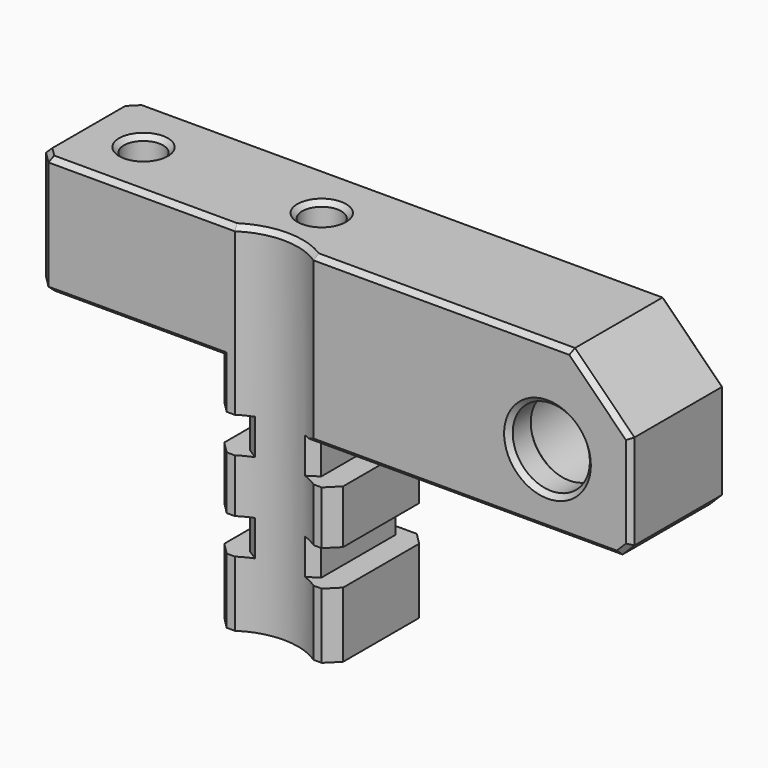
from build123d import *

# Parameters (mm, degrees)
SKETCH_W        = 25
SKETCH_H        = 10
SKETCH_R        = 1.65
PAD_DEPTH       = 30
SKETCH001_W     = 15
SKETCH001_H     = 10
POCKET_DEPTH    = 20
SKETCH002_R     = 3.5
POCKET001_DEPTH = 5
SKETCH003_R     = 6
POCKET002_DEPTH = 30.001
SKETCH004_W     = 2
SKETCH004_H     = 3
POCKET003_DEPTH = 10.001
PAD001_DEPTH    = 10
CHAMFER_SIZE    = 1
SKETCH006_R     = 3.25
POCKET004_DEPTH = 10.001
SKETCH007_R     = 4
POCKET005_DEPTH = 7
CHAMFER001_SIZE = 0.7
CHAMFER002_SIZE = 1
CHAMFER003_SIZE = 0.4


with BuildPart() as part:
    # Sketch → Pad (new body)
    with BuildSketch(Plane.XY):
        with Locations((-7.5, 0)):
            Rectangle(SKETCH_W, SKETCH_H)
        Circle(SKETCH_R, mode=Mode.SUBTRACT)
        with Locations((-15, 0)):
            Circle(SKETCH_R, mode=Mode.SUBTRACT)
    extrude(amount=PAD_DEPTH)

    # Sketch001 (on Face7 of Pad) → Pocket (cut)
    with BuildSketch(Plane(origin=(0, 0, 0), x_dir=(1, 0, 0), z_dir=(0, 0, -1))):
        with Locations((-12.5, 0)):
            Rectangle(SKETCH001_W, SKETCH001_H)
    extrude(amount=-POCKET_DEPTH, mode=Mode.SUBTRACT)

    # Sketch002 (on Face4 of Pocket) → Pocket001 (cut)
    with BuildSketch(Plane(origin=(0, 0, 0), x_dir=(1, 0, 0), z_dir=(0, 0, -1))):
        Circle(SKETCH002_R)
    extrude(amount=-POCKET001_DEPTH, mode=Mode.SUBTRACT)

    # Sketch003 (on Face4 of Pocket001) → Pocket002 (cut, through all)
    with BuildSketch(Plane(origin=(0, 0, 0), x_dir=(1, 0, 0), z_dir=(0, 0, -1))):
        with Locations((0, 10)):
            Circle(SKETCH003_R)
    extrude(amount=-POCKET002_DEPTH, mode=Mode.SUBTRACT)

    # Sketch004 (on Face11 of Pocket002) → Pocket003 (cut, through all)
    with BuildSketch(Plane.XZ.offset(5)):
        with Locations((-4, 7)):
            Rectangle(SKETCH004_W, SKETCH004_H)
        with Locations((4, 7)):
            Rectangle(SKETCH004_W, SKETCH004_H)
        with Locations((-4, 14.5)):
            Rectangle(SKETCH004_W, SKETCH004_H)
        with Locations((4, 14.5)):
            Rectangle(SKETCH004_W, SKETCH004_H)
    extrude(amount=-POCKET003_DEPTH, mode=Mode.SUBTRACT)

    # Sketch005 (on Face31 of Pocket003) → Pad001 (join)
    with BuildSketch(Plane.XZ.offset(5)):
        Polygon((5, 16), (30, 16), (30, 25), (25, 30), (5, 30), align=None)
    extrude(amount=-PAD001_DEPTH)

    # Chamfer
    chamfer_edges = [part.edges().sort_by_distance(p)[0] for p in [
        (-5, 5, 18),
        (-3, 5, 14.5),
        (3, 5, 14.5),
        (5, 5, 10.75),
        (-5, 5, 10.75),
        (-3, 5, 7),
        (-5, 5, 2.75),
        (5, 5, 2.75),
        (3, 5, 7),
        (-5, -5, 18),
        (-3, -4.803848, 14.5),
        (-5, -5, 10.75),
        (-3, -4.803848, 7),
        (-5, -5, 2.75),
        (5, -5, 2.75),
        (3, -4.803848, 7),
        (5, -5, 10.75),
        (3, -4.803848, 14.5),
        (30, 0, 16),
        (-20, -5, 25),
        (-20, 5, 25),
    ]]
    chamfer(chamfer_edges, length=CHAMFER_SIZE)

    # Sketch006 (on Face59 of Chamfer) → Pocket004 (cut, through all)
    with BuildSketch(Plane.XZ.offset(5)):
        with Locations((23, 22)):
            Circle(SKETCH006_R)
    extrude(amount=-POCKET004_DEPTH, mode=Mode.SUBTRACT)

    # Sketch007 (on Face10 of Pocket004) → Pocket005 (cut)
    with BuildSketch(Plane(origin=(0, 5, 0), x_dir=(-1, 0, 0), z_dir=(0, 1, 0))):
        with Locations((-23, 22)):
            Circle(SKETCH007_R)
    extrude(amount=-POCKET005_DEPTH, mode=Mode.SUBTRACT)

    # Chamfer001
    chamfer001_edges = [part.edges().sort_by_distance(p)[0] for p in [
        (19.75, -2, 22),
    ]]
    chamfer(chamfer001_edges, length=CHAMFER001_SIZE)

    # Chamfer002
    chamfer002_edges = [part.edges().sort_by_distance(p)[0] for p in [
        (27, 5, 22),
    ]]
    chamfer(chamfer002_edges, length=CHAMFER002_SIZE)

    # Chamfer003
    chamfer003_edges = [part.edges().sort_by_distance(p)[0] for p in [
        (-16.65, 0, 30),
        (-1.65, 0, 30),
        (0, -4, 30),
        (-11.158312, -5, 30),
        (-19.5, -4.5, 30),
        (-20, 0, 30),
        (-19.5, 4.5, 30),
        (3, 5, 30),
        (14.158312, -5, 30),
        (27.5, -5, 27.5),
        (19.75, -5, 22),
        (30, -5, 21),
        (29.5, -5, 16.5),
        (16.158312, -5, 16),
        (15.5, 5, 16),
        (29.5, 5, 16.5),
        (30, 5, 21),
        (27.5, 5, 27.5),
        (-16.65, 0, 20),
        (-11.5, 5, 20),
        (-19.5, 4.5, 20),
        (-20, 0, 20),
        (-11.5, -5, 20),
        (-19.5, -4.5, 20),
        (-1.65, 0, 5),
    ]]
    chamfer(chamfer003_edges, length=CHAMFER003_SIZE)


solid = part.part
